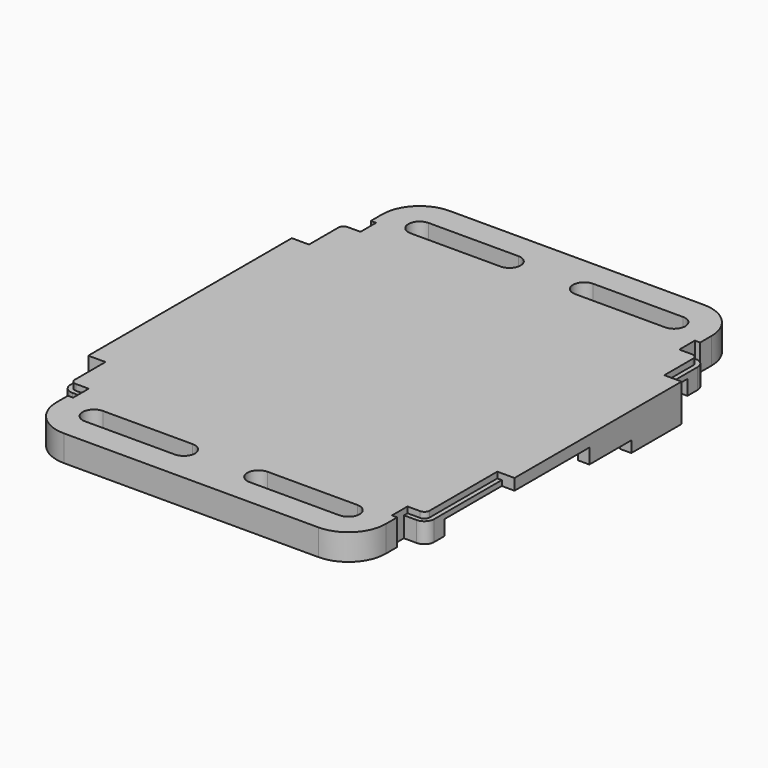
from build123d import *

# Parameters (mm, degrees)
PAD017_DEPTH    = 3.5
POCKET027_DEPTH = 2
SKETCH054_W     = 34
SKETCH054_H     = 4.8
PAD020_DEPTH    = 1.5
PAD021_DEPTH    = 1.5
SKETCH049_W     = 4
SKETCH049_H     = 17.5
POCKET028_DEPTH = 0.5
POCKET029_DEPTH = 0.8


with BuildPart() as part:
    # Sketch045 → Pad017 (new body)
    with BuildSketch(Plane.XY):
        with BuildLine():
            ThreePointArc((-23, 23.3), (-23.9192388155, 22.9192388155), (-24.3, 22))
            Line((-24.3, 22), (-24.3, 17.1))
            Line((-26, 17.1), (-24.3, 17.1))
            Line((-26, -16.9), (-26, 17.1))
            Line((-24.3, -16.9), (-26, -16.9))
            Line((-24.3, -16.9), (-24.3, -22))
            ThreePointArc((-24.3, -22), (-23.9192388155, -22.9192388155), (-23, -23.3))
            Line((-21.3, -23.3), (-23, -23.3))
            Line((-21.3, -25.3), (-21.3, -23.3))
            Line((-22, -25.3), (-21.3, -25.3))
            Line((-22, -27.2), (-22, -25.3))
            ThreePointArc((-22, -27.2), (-20.5355339059, -30.7355339059), (-17, -32.2))
            Line((-17, -32.2), (17, -32.2))
            ThreePointArc((17, -32.2), (20.5355339059, -30.7355339059), (22, -27.2))
            Line((22, -27.2), (22, -25.3))
            Line((22, -25.3), (21.3, -25.3))
            Line((21.3, -25.3), (21.3, -23.3))
            Line((21.3, -23.3), (23, -23.3))
            ThreePointArc((23, -23.3), (23.9192388155, -22.9192388155), (24.3, -22))
            Line((24.3, -22), (24.3, -10.7))
            Line((26, -10.7), (24.3, -10.7))
            Line((26, 17.2), (26, -10.7))
            Line((24.3, 17.2), (26, 17.2))
            Line((24.3, 22), (24.3, 17.2))
            ThreePointArc((24.3, 22), (23.9192388155, 22.9192388155), (23, 23.3))
            Line((21.3, 23.3), (23, 23.3))
            Line((21.3, 25.3), (21.3, 23.3))
            Line((22, 25.3), (21.3, 25.3))
            Line((22, 27.2), (22, 25.3))
            ThreePointArc((22, 27.2), (20.5355339059, 30.7355339059), (17, 32.2))
            Line((-17, 32.2), (17, 32.2))
            ThreePointArc((-17, 32.2), (-20.5355339059, 30.7355339059), (-22, 27.2))
            Line((-22, 27.2), (-22, 25.3))
            Line((-22, 25.3), (-21.3, 25.3))
            Line((-21.3, 25.3), (-21.3, 23.3))
            Line((-21.3, 23.3), (-23, 23.3))
        make_face()
        with BuildLine():
            ThreePointArc((-17, 28.7), (-18.5, 27.2), (-17, 25.7))
            Line((-17, 25.7), (-5, 25.7))
            ThreePointArc((-5, 25.7), (-3.5, 27.2), (-5, 28.7))
            Line((-17, 28.7), (-5, 28.7))
        make_face(mode=Mode.SUBTRACT)
        with BuildLine():
            ThreePointArc((5, 28.7), (3.5, 27.2), (5, 25.7))
            Line((5, 25.7), (17, 25.7))
            ThreePointArc((17, 25.7), (18.5, 27.2), (17, 28.7))
            Line((5, 28.7), (17, 28.7))
        make_face(mode=Mode.SUBTRACT)
        with BuildLine():
            ThreePointArc((-17, -25.7), (-18.5, -27.2), (-17, -28.7))
            Line((-17, -28.7), (-5, -28.7))
            ThreePointArc((-5, -28.7), (-3.5, -27.2), (-5, -25.7))
            Line((-17, -25.7), (-5, -25.7))
        make_face(mode=Mode.SUBTRACT)
        with BuildLine():
            ThreePointArc((5, -25.7), (3.5, -27.2), (5, -28.7))
            Line((5, -28.7), (17, -28.7))
            ThreePointArc((17, -28.7), (18.5, -27.2), (17, -25.7))
            Line((5, -25.7), (17, -25.7))
        make_face(mode=Mode.SUBTRACT)
    extrude(amount=PAD017_DEPTH)

    # Sketch047 (on Face53 of Pad017) → Pocket027 (cut)
    with BuildSketch(Plane(origin=(0, 0, 0), x_dir=(1, 0, 0), z_dir=(0, 0, -1))):
        Polygon((20.5, -23.3), (-20.5, -23.3), (-20.5, -20.3), (-26, -20.3), (-26, 20.3), (-20.5, 20.3), (-20.5, 23.3), (20.5, 23.3), (20.5, 20.3), (26, 20.3), (26, -20.3), (20.5, -20.3), align=None)
    extrude(amount=-POCKET027_DEPTH, mode=Mode.SUBTRACT)

    # Sketch054 (on Face32 of Pocket027) → Pad020 (join)
    with BuildSketch(Plane(origin=(-26, 0, 0), x_dir=(0, -1, 0), z_dir=(-1, 0, 0))):
        with Locations((-0.1, 1.1)):
            Rectangle(SKETCH054_W, SKETCH054_H)
    extrude(amount=-PAD020_DEPTH)

    # Sketch055 (on Face31 of Pad020) → Pad021 (join)
    with BuildSketch(Plane.YZ.offset(26)):
        Polygon((1.8, 3.5), (1.8, 0), (8.8, 0), (8.8, -1.5), (17.2, -1.5), (17.2, 3.5), align=None)
    extrude(amount=-PAD021_DEPTH)

    # Sketch049 (on Face49 of Pad021) → Pocket028 (cut)
    with BuildSketch(Plane(origin=(0, 0, 2), x_dir=(1, 0, 0), z_dir=(0, 0, -1))):
        with Locations((-22.5, 0.25)):
            Rectangle(SKETCH049_W, SKETCH049_H)
    extrude(amount=-POCKET028_DEPTH, mode=Mode.SUBTRACT)

    # Sketch048 (on Face4 of Pocket028) → Pocket029 (cut)
    with BuildSketch(Plane.XY.offset(3.5)):
        with BuildLine():
            ThreePointArc((24.3, 22), (23.9192388155, 22.9192388155), (23, 23.3))
            Line((23, 23.3), (21.3, 23.3))
            Line((21.3, 23.3), (21.3, 22.7))
            Line((21.3, 22.7), (23.0000081541, 22.7))
            ThreePointArc((23.7, 22.0000000128), (23.4949776252, 22.4949718684), (23.0000081541, 22.7))
            Line((23.7, 22.0000000128), (23.7, 17.2))
            Line((23.7, 17.2), (24.3, 17.2))
            Line((24.3, 17.2), (24.3, 22))
        make_face()
        with BuildLine():
            Line((23, -23.3), (21.3, -23.3))
            Line((21.3, -23.3), (21.3, -22.7))
            Line((21.3, -22.7), (23.0000012126, -22.7))
            ThreePointArc((23.0000012126, -22.7), (23.4949754721, -22.4949748266), (23.7, -22.0000002998))
            Line((23.7, -10.7), (23.7, -22.0000002998))
            Line((23.7, -10.7), (24.3, -10.7))
            Line((24.3, -10.7), (24.3, -22))
            ThreePointArc((23, -23.3), (23.9192392181, -22.9192392181), (24.3, -22))
        make_face()
        with BuildLine():
            ThreePointArc((-23, 23.3), (-23.9192388155, 22.9192388155), (-24.3, 22))
            Line((-24.3, 22), (-24.3, 17.1))
            Line((-24.3, 17.1), (-23.7, 17.1))
            Line((-23.7, 17.1), (-23.7, 21.9999998829))
            ThreePointArc((-23, 22.7), (-23.4949747882, 22.4949747054), (-23.7, 21.9999998829))
            Line((-23, 22.7), (-21.3, 22.7))
            Line((-21.3, 22.7), (-21.3, 23.3))
            Line((-21.3, 23.3), (-23, 23.3))
        make_face()
        with BuildLine():
            ThreePointArc((-24.3, -22), (-23.9192388155, -22.9192388155), (-23, -23.3))
            Line((-23, -23.3), (-21.3, -23.3))
            Line((-21.3, -23.3), (-21.3, -22.7))
            Line((-21.3, -22.7), (-23.0000001118, -22.7))
            ThreePointArc((-23.7, -22), (-23.4949747864, -22.4949747073), (-23.0000001118, -22.7))
            Line((-23.7, -22), (-23.7, -16.9))
            Line((-23.7, -16.9), (-24.3, -16.9))
            Line((-24.3, -16.9), (-24.3, -22))
        make_face()
    extrude(amount=-POCKET029_DEPTH, mode=Mode.SUBTRACT)


with BuildPart() as part_1:
    # Body004 placement: moved
    add(part.part.moved(Location((0, 0, -0.5))))


solid = part_1.part
